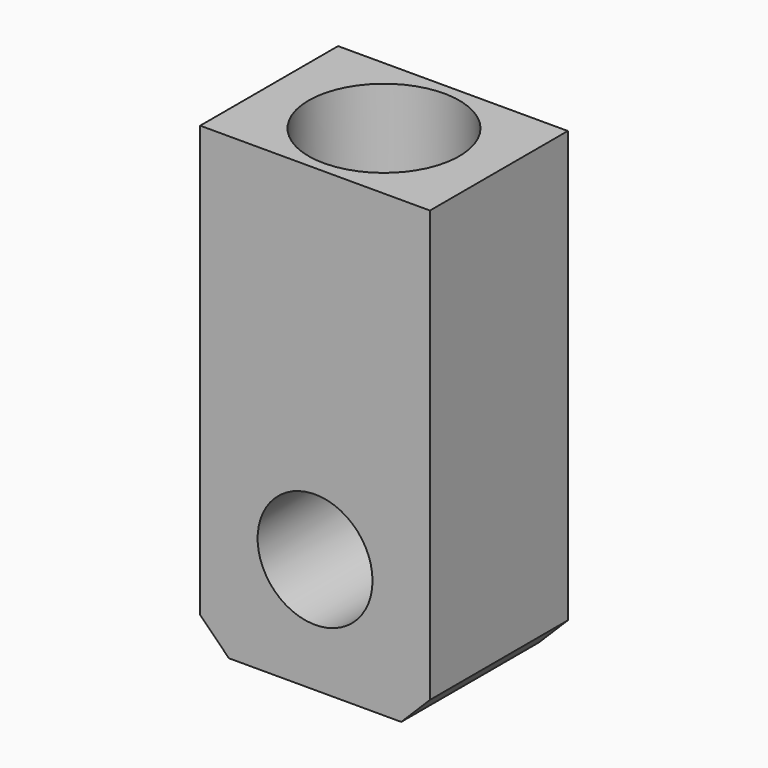
from build123d import *

# Parameters (mm, degrees)
F0_W     = 25.4
F0_H     = 50.8
F0_R     = 6.35
F1_DEPTH = 9.525
F2_SIZE  = 3.175
F4_D     = 16.66748
F4_DEPTH = 20.32
F4_TIP   = 5.0074161752


with BuildPart() as f1:
    # F0 (on Front) → F1 (new body, symmetric)
    with BuildSketch(Plane.XZ):
        Rectangle(F0_W, F0_H)
        with Locations((0, -12.7)):
            Circle(F0_R, mode=Mode.SUBTRACT)
    extrude(amount=F1_DEPTH, both=True)

    # F2
    f2_edges = [f1.edges().sort_by_distance(p)[0] for p in [
        (12.7, 0, -25.4),
        (-12.7, 0, -25.4),
    ]]
    chamfer(f2_edges, length=F2_SIZE)

    # F4
    with Locations(Plane.XY.offset(25.4)):
        with Locations((0, 0)):
            Hole(F4_D / 2, depth=F4_DEPTH)
            with Locations((0, 0, -(F4_DEPTH + F4_TIP / 2))):  # 118° drill point
                Cone(0, F4_D / 2, F4_TIP, mode=Mode.SUBTRACT)


solid = f1.part
